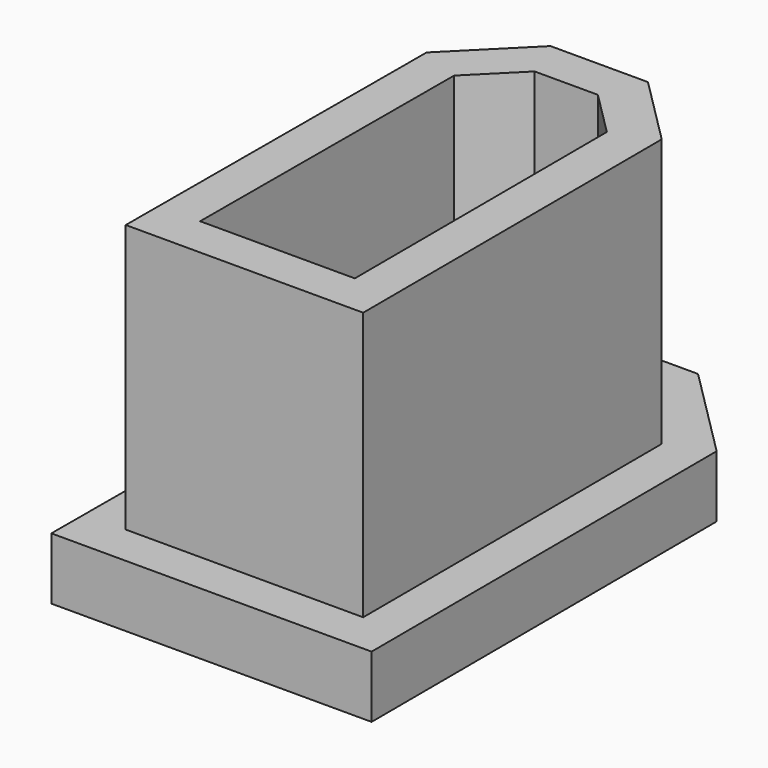
from build123d import *

# Parameters (mm, degrees)
F1_DEPTH = 8
F2_DEPTH = 1.5


with BuildPart() as f1:
    # F0 (on Top) → F1 (new body)
    with BuildSketch(Plane.XY):
        Polygon((-1.180977, 5.375), (-2.849841, 3.706136), (-2.878119, -5.375), (2.878119, -5.375), (2.849841, 3.706136), (1.180977, 5.375), align=None)
        Polygon((1.85113, 3.290633), (1.875, -4.375), (-1.875, -4.375), (-1.85113, 3.290633), (-0.766763, 4.375), (0.766763, 4.375), align=None, mode=Mode.SUBTRACT)
    extrude(amount=F1_DEPTH)

    # F0 (on Top) → F2 (join)
    with BuildSketch(Plane.XY):
        Polygon((-1.59519, 6.375), (-3.848552, 4.121638), (-3.881237, -6.375), (3.881237, -6.375), (3.848552, 4.121638), (1.59519, 6.375), align=None)
        Polygon((-2.878119, -5.375), (-2.849841, 3.706136), (-1.180977, 5.375), (1.180977, 5.375), (2.849841, 3.706136), (2.878119, -5.375), align=None, mode=Mode.SUBTRACT)
        Polygon((-1.875, -4.375), (1.875, -4.375), (1.85113, 3.290633), (1.85113, 1.757106), (0.766763, 0.672739), (-0.766763, 0.672739), (-1.85113, 1.757106), (-1.85113, 3.290633), align=None)
        Polygon((1.85113, 1.757106), (1.85113, 3.290633), (0.766763, 4.375), (-0.766763, 4.375), (-1.85113, 3.290633), (-1.85113, 1.757106), (-0.766763, 0.672739), (0.766763, 0.672739), align=None)
    extrude(amount=F2_DEPTH)


solid = f1.part
